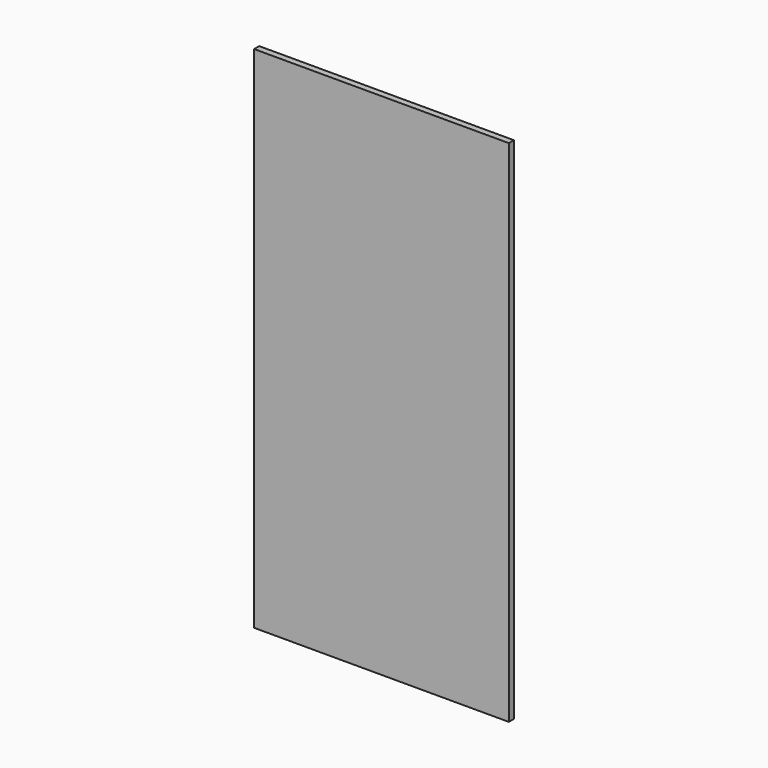
from build123d import *

# Parameters (mm, degrees)
F0_W     = 40
F0_H     = 80
F1_DEPTH = 1
F2_W     = 5
F2_H     = 75
F3_DEPTH = 2.5


with BuildPart() as f1:
    # F0 (on Front) → F1 (new body)
    with BuildSketch(Plane.XZ):
        Rectangle(F0_W, F0_H)
    extrude(amount=F1_DEPTH)

    # F2 (on face) → F3 (join)
    with BuildSketch(Plane(origin=(0, 0, 0), x_dir=(-1, 0, 0), z_dir=(0, 1, 0))):
        with Locations((-0.3575, -2.5)):
            Rectangle(F2_W, F2_H)
    extrude(amount=F3_DEPTH)


solid = f1.part
